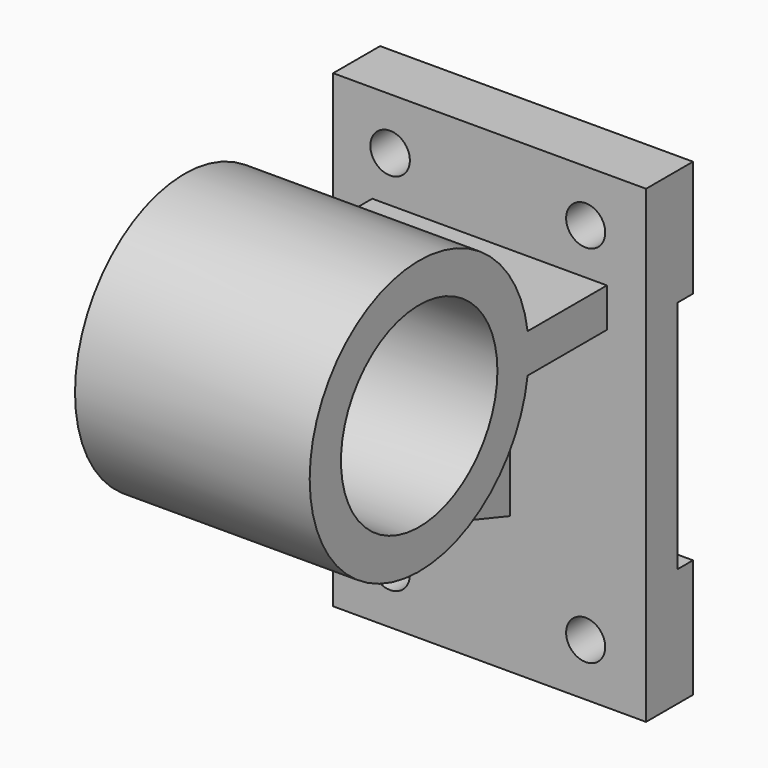
from build123d import *

# Parameters (mm, degrees)
F0_W      = 80
F0_H      = 120
F1_DEPTH  = 15
F3_DEPTH  = 60
F4_R      = 35
F4_R_2    = 25
F5_DEPTH  = 60
F6_R      = 25
F7_DEPTH  = 72.2
F8_W      = 10
F8_H      = 50
F9_DEPTH  = 59.7
F11_DEPTH = 25
F12_R     = 5.047849
F12_R_2   = 5
F13_DEPTH = 39.5
F14_W     = 5
F14_H     = 60
F15_DEPTH = 85.5
F16_R     = 25
F17_DEPTH = 91.3


with BuildPart() as f1:
    # F0 (on Front) → F1 (new body)
    with BuildSketch(Plane.XZ):
        with Locations((-23.184717, 1.068225)):
            Rectangle(F0_W, F0_H)
    extrude(amount=F1_DEPTH)

    # F2 (on face) → F3 (join)
    with BuildSketch(Plane.XZ.offset(15)):
        Polygon((6.815283, 36.068225), (-53.184717, 36.068225), (-53.184717, 26.068225), (-27.741479, 26.068225), (-17.741479, 26.068225), (6.815283, 26.068225), align=None)
    extrude(amount=F3_DEPTH)

    # F4 (on face) → F5 (join)
    with BuildSketch(Plane.YZ.offset(6.815283)):
        with Locations((-75, 31.068225)):
            Circle(F4_R)
        with Locations((-75, 31.068225)):
            Circle(F4_R_2, mode=Mode.SUBTRACT)
    extrude(amount=-F5_DEPTH)

    # F6 (on face) → F7 (cut)
    with BuildSketch(Plane.YZ.offset(6.815283)):
        with Locations((-75, 31.068225)):
            Circle(F6_R)
    extrude(amount=-F7_DEPTH, mode=Mode.SUBTRACT)

    # F8 (on face) → F9 (join)
    with BuildSketch(Plane.XZ.offset(15)):
        with Locations((-23.003544, 1.068225)):
            Rectangle(F8_W, F8_H)
    extrude(amount=F9_DEPTH)

    # F10 (on face) → F11 (cut)
    with BuildSketch(Plane(origin=(-28.003544, 0, 0), x_dir=(0, -1, 0), z_dir=(-1, 0, 0))):
        Polygon((87.144889, -23.931775), (74.7, -3.930489), (15, -23.931775), (56.138653, -39.033107), align=None)
    extrude(amount=-F11_DEPTH, mode=Mode.SUBTRACT)

    # F12 (on face) → F13 (cut)
    with BuildSketch(Plane.XZ.offset(15)):
        with Locations((-48.622161, -45.490056)):
            Circle(F12_R)
        with Locations((1.377839, -45.490056)):
            Circle(F12_R_2)
        with Locations((-48.622161, 47.809944)):
            Circle(F12_R)
        with Locations((1.377839, 47.809944)):
            Circle(F12_R_2)
    extrude(amount=-F13_DEPTH, mode=Mode.SUBTRACT)

    # F14 (on face) → F15 (cut)
    with BuildSketch(Plane.YZ.offset(16.815283)):
        with Locations((-2.5, 1.347677)):
            Rectangle(F14_W, F14_H)
    extrude(amount=-F15_DEPTH, mode=Mode.SUBTRACT)

    # F16 (on face) → F17 (cut)
    with BuildSketch(Plane(origin=(-53.184717, 0, 0), x_dir=(0, -1, 0), z_dir=(-1, 0, 0))):
        with Locations((75, 31.068225)):
            Circle(F16_R)
    extrude(amount=-F17_DEPTH, mode=Mode.SUBTRACT)


solid = f1.part
